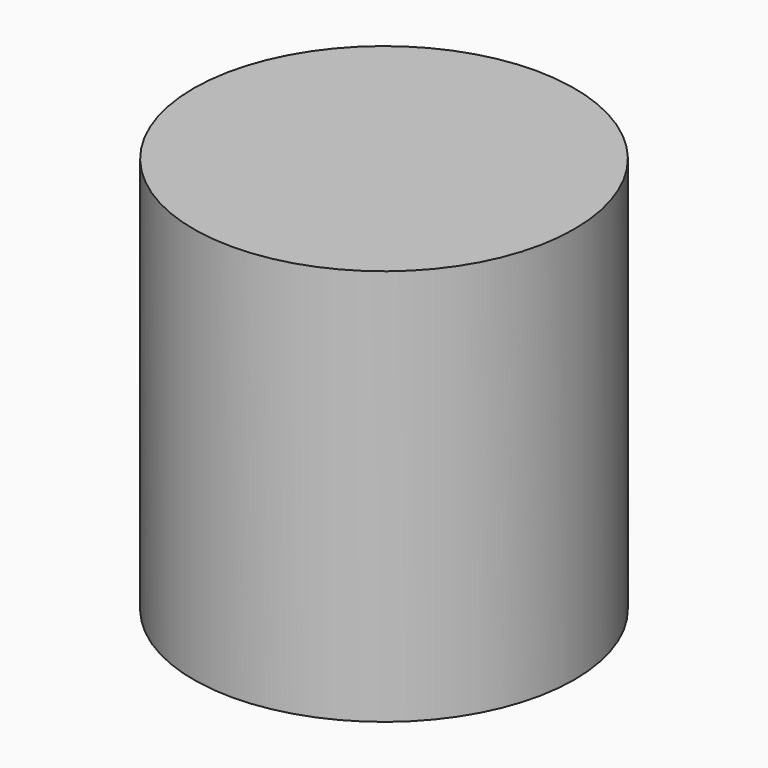
from build123d import *

# Parameters (mm, degrees)
CYLINDER_R     = 7.2009
CYLINDER_DEPTH = 15


with BuildPart() as part:
    # Cylinder → Cylinder (new body)
    with BuildSketch(Plane.XY.offset(-2.5)):
        Circle(CYLINDER_R)
    extrude(amount=CYLINDER_DEPTH)


solid = part.part
